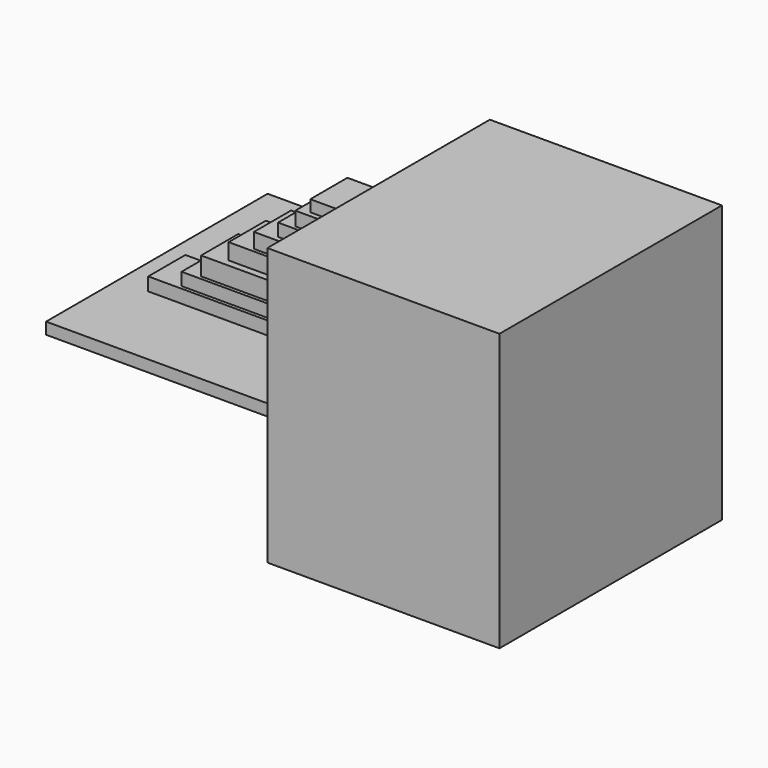
from build123d import *

# Parameters (mm, degrees)
F0_W      = 152.1604731679
F0_H      = 151.5317112207
F1_DEPTH  = 127
F2_DEPTH  = 101.6
F4_W      = 122.2480982542
F4_H      = 151.5317037702
F5_DEPTH  = 6.35
F6_W      = 105.6139692664
F6_H      = 7.2307661176
F7_DEPTH  = 25.4
F8_W      = 87.3798653483
F8_H      = 6.916385144
F9_DEPTH  = 25.4
F11_W     = 61.6006106138
F11_H     = 8.8026728481
F12_DEPTH = 25.4
F13_W     = 47.7678403258
F13_H     = 8.1739090383
F14_DEPTH = 25.4
F15_W     = 34.563831985
F15_H     = 6.916385144
F16_DEPTH = 25.4
F17_W     = 25.1323971897
F17_H     = 7.5451470912
F18_DEPTH = 25.4
F19_W     = 16.9584862888
F19_H     = 6.2876269221
F20_DEPTH = 25.4
F10_W     = 76.6909047961
F10_H     = 10.0601967424
F21_DEPTH = 25.4


with BuildPart() as f1:
    # F0 (on Right) → F1 (new body)
    with BuildSketch(Plane.YZ):
        with Locations((0.1571886241, 0)):
            Rectangle(F0_W, F0_H)
    extrude(amount=F1_DEPTH)


with BuildPart() as f2:
    # F2 (new): a face of the model
    f2_faces = [f1.part.faces().sort_by_distance(p)[0] for p in [
        (63.5, -75.9230479598, 0),
    ]]
    extrude(f2_faces, amount=F2_DEPTH)


with BuildPart() as f1_1:
    add(f1.part)

    # F4 (on Top) → F5 (join)
    with BuildSketch(Plane.XY):
        with Locations((-61.1240491271, 1.2762360275)):
            Rectangle(F4_W, F4_H)
    extrude(amount=-F5_DEPTH)

    # F6 (on Front) → F7 (join)
    with BuildSketch(Plane.XZ):
        with Locations((-52.8069846332, 3.6153830588)):
            Rectangle(F6_W, F6_H)
    extrude(amount=F7_DEPTH)

    # F8 (on Front) → F9 (join)
    with BuildSketch(Plane.XZ):
        with Locations((-43.6899326742, 11.9464835152)):
            Rectangle(F8_W, F8_H)
    extrude(amount=F9_DEPTH)

    # F11 (on Front) → F12 (join)
    with BuildSketch(Plane.XZ):
        with Locations((-30.8003053069, 33.6387837306)):
            Rectangle(F11_W, F11_H)
    extrude(amount=F12_DEPTH)

    # F13 (on Front) → F14 (join)
    with BuildSketch(Plane.XZ):
        with Locations((-23.8839201629, 43.3845985681)):
            Rectangle(F13_W, F13_H)
    extrude(amount=F14_DEPTH)

    # F15 (on Front) → F16 (join)
    with BuildSketch(Plane.XZ):
        with Locations((-17.2819159925, 52.8160315007)):
            Rectangle(F15_W, F15_H)
    extrude(amount=F16_DEPTH)

    # F17 (on Front) → F18 (join)
    with BuildSketch(Plane.XZ):
        with Locations((-12.5661985949, 61.3043215126)):
            Rectangle(F17_W, F17_H)
    extrude(amount=F18_DEPTH)

    # F19 (on Front) → F20 (join)
    with BuildSketch(Plane.XZ):
        with Locations((-8.4792431444, 70.1069943607)):
            Rectangle(F19_W, F19_H)
    extrude(amount=F20_DEPTH)

    # F10 (on Front) → F21 (join)
    with BuildSketch(Plane.XZ):
        with Locations((-38.3454523981, 21.692299284)):
            Rectangle(F10_W, F10_H)
    extrude(amount=F21_DEPTH)


solid = f1_1.part
